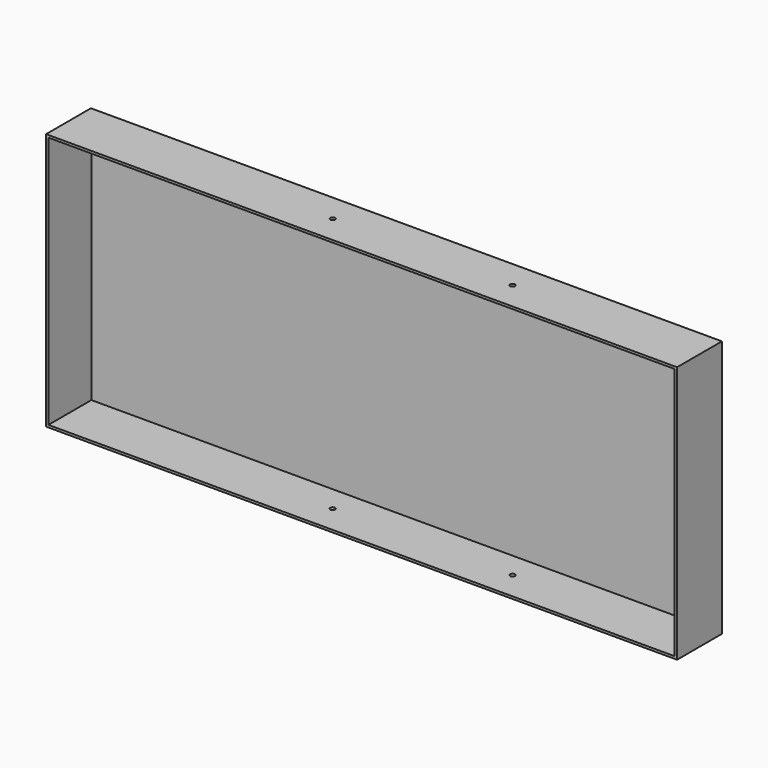
from build123d import *

# Parameters (mm, degrees)
F0_W     = 428.752
F0_H     = 175
F1_DEPTH = 38.1
F2_T     = -1.5875
F4_D     = 3.3


with BuildPart() as f1:
    # F0 (on Front) → F1 (new body)
    with BuildSketch(Plane.XZ):
        Rectangle(F0_W, F0_H)
    extrude(amount=F1_DEPTH)

    # F2
    f2_openings = [f1.faces().sort_by_distance(p)[0] for p in [
        (0, -38.1, 0),
    ]]
    offset(amount=F2_T, openings=f2_openings)

    # F4 (through all)
    with Locations(Plane(origin=(0, 0, -87.5), x_dir=(1, 0, 0), z_dir=(0, 0, -1))):
        with Locations((-34.8615, 19.05), (87.376, 19.05)):
            Hole(F4_D / 2)


solid = f1.part
